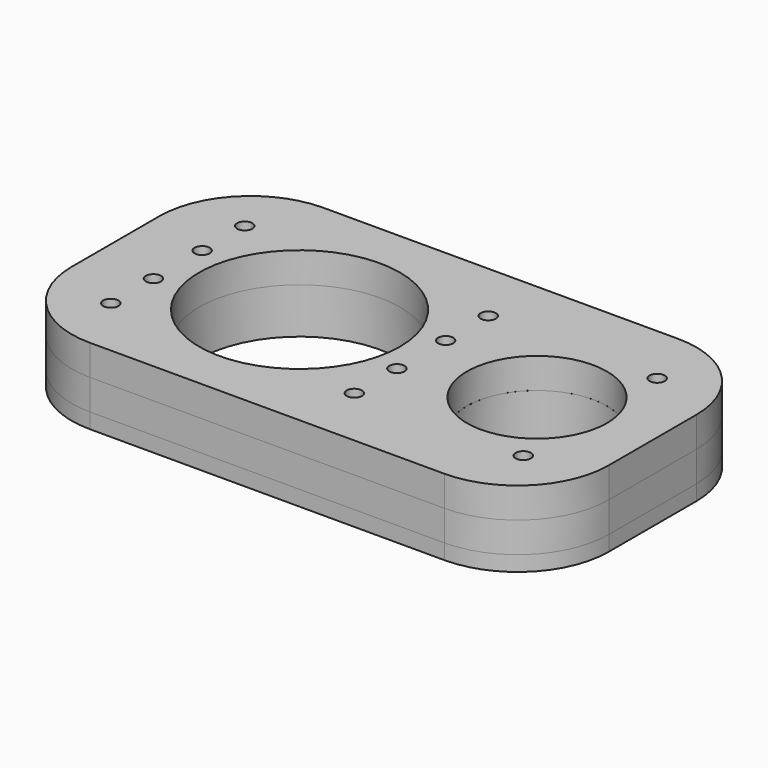
from build123d import *

# Parameters (mm, degrees)
F0_R     = 3.175
F0_R_2   = 41.91
F1_DEPTH = 19.05
F2_DEPTH = 10
F3_R     = 3.175
F3_R_2   = 41.91
F3_R_3   = 29.21
F5_DEPTH = 12.7
F4_R     = 3.175
F6_DEPTH = 12.7
F7_DEPTH = 8.89


with BuildPart() as f1:
    # F0 (on Top) → F1 (new body)
    with BuildSketch(Plane.XY):
        with BuildLine():
            ThreePointArc((109.22, -60.96), (136.1607683632, -49.8007683632), (147.32, -22.86))
            Line((147.32, -22.86), (147.32, 22.86))
            ThreePointArc((147.32, 22.86), (136.1607683632, 49.8007683632), (109.22, 60.96))
            Line((109.22, 60.96), (-38.735, 60.96))
            ThreePointArc((-38.735, 60.96), (-65.6757683632, 49.8007683632), (-76.835, 22.86))
            Line((-76.835, 22.86), (-76.835, -22.86))
            ThreePointArc((-76.835, -22.86), (-65.6757683632, -49.8007683632), (-38.735, -60.96))
            Line((-38.735, -60.96), (109.22, -60.96))
        make_face()
        with BuildLine():
            ThreePointArc((140.97, -22.86), (131.6706403027, -45.3106403027), (109.22, -54.61))
            Line((109.22, -54.61), (-38.735, -54.61))
            ThreePointArc((-38.735, -54.61), (-61.1856403027, -45.3106403027), (-70.485, -22.86))
            Line((-70.485, -22.86), (-70.485, 22.86))
            ThreePointArc((-70.485, 22.86), (-61.1856403027, 45.3106403027), (-38.735, 54.61))
            Line((-38.735, 54.61), (109.22, 54.61))
            ThreePointArc((109.22, 54.61), (131.6706403027, 45.3106403027), (140.97, 22.86))
            Line((140.97, 22.86), (140.97, -22.86))
        make_face(mode=Mode.SUBTRACT)
        with BuildLine():
            Line((-38.735, -54.61), (109.22, -54.61))
            ThreePointArc((109.22, -54.61), (131.6706403027, -45.3106403027), (140.97, -22.86))
            Line((140.97, -22.86), (140.97, 22.86))
            ThreePointArc((140.97, 22.86), (131.6706403027, 45.3106403027), (109.22, 54.61))
            Line((109.22, 54.61), (-38.735, 54.61))
            ThreePointArc((-38.735, 54.61), (-61.1856403027, 45.3106403027), (-70.485, 22.86))
            Line((-70.485, 22.86), (-70.485, -22.86))
            ThreePointArc((-70.485, -22.86), (-61.1856403027, -45.3106403027), (-38.735, -54.61))
        make_face()
        with BuildLine():
            ThreePointArc((130.97, -22.86), (124.5995724908, -38.2395724908), (109.22, -44.61))
            Line((109.22, -44.61), (-38.735, -44.61))
            ThreePointArc((-38.735, -44.61), (-54.1145724908, -38.2395724908), (-60.485, -22.86))
            Line((-60.485, -22.86), (-60.485, 22.86))
            ThreePointArc((-60.485, 22.86), (-54.1145724908, 38.2395724908), (-38.735, 44.61))
            Line((-38.735, 44.61), (109.22, 44.61))
            ThreePointArc((109.22, 44.61), (124.5995724908, 38.2395724908), (130.97, 22.86))
            Line((130.97, 22.86), (130.97, -22.86))
        make_face(mode=Mode.SUBTRACT)
        with BuildLine():
            Line((-38.735, -44.61), (109.22, -44.61))
            ThreePointArc((109.22, -44.61), (124.5995724908, -38.2395724908), (130.97, -22.86))
            Line((130.97, -22.86), (130.97, 22.86))
            ThreePointArc((130.97, 22.86), (124.5995724908, 38.2395724908), (109.22, 44.61))
            Line((109.22, 44.61), (-38.735, 44.61))
            ThreePointArc((-38.735, 44.61), (-54.1145724908, 38.2395724908), (-60.485, 22.86))
            Line((-60.485, 22.86), (-60.485, -22.86))
            ThreePointArc((-60.485, -22.86), (-54.1145724908, -38.2395724908), (-38.735, -44.61))
        make_face()
        with Locations((-50.8, -34.925)):
            Circle(F0_R, mode=Mode.SUBTRACT)
        with Locations((-50.8, -12.7)):
            Circle(F0_R, mode=Mode.SUBTRACT)
        Circle(F0_R_2, mode=Mode.SUBTRACT)
        with Locations((50.8, -34.925)):
            Circle(F0_R, mode=Mode.SUBTRACT)
        with Locations((121.285, -34.925)):
            Circle(F0_R, mode=Mode.SUBTRACT)
        with Locations((50.8, -12.7)):
            Circle(F0_R, mode=Mode.SUBTRACT)
        with BuildLine():
            ThreePointArc((128.27, 0), (99.06, -29.21), (69.85, 0))
            ThreePointArc((69.85, 0), (99.06, 29.21), (128.27, 0))
        make_face(mode=Mode.SUBTRACT)
        with Locations((-50.8, 12.7)):
            Circle(F0_R, mode=Mode.SUBTRACT)
        with Locations((-50.8, 34.925)):
            Circle(F0_R, mode=Mode.SUBTRACT)
        with Locations((50.8, 12.7)):
            Circle(F0_R, mode=Mode.SUBTRACT)
        with Locations((50.8, 34.925)):
            Circle(F0_R, mode=Mode.SUBTRACT)
        with Locations((121.285, 34.925)):
            Circle(F0_R, mode=Mode.SUBTRACT)
    extrude(amount=-F1_DEPTH)

    # F0 (on Top) → F2 (cut)
    with BuildSketch(Plane.XY):
        with BuildLine():
            Line((-38.735, -54.61), (109.22, -54.61))
            ThreePointArc((109.22, -54.61), (131.6706403027, -45.3106403027), (140.97, -22.86))
            Line((140.97, -22.86), (140.97, 22.86))
            ThreePointArc((140.97, 22.86), (131.6706403027, 45.3106403027), (109.22, 54.61))
            Line((109.22, 54.61), (-38.735, 54.61))
            ThreePointArc((-38.735, 54.61), (-61.1856403027, 45.3106403027), (-70.485, 22.86))
            Line((-70.485, 22.86), (-70.485, -22.86))
            ThreePointArc((-70.485, -22.86), (-61.1856403027, -45.3106403027), (-38.735, -54.61))
        make_face()
        with BuildLine():
            ThreePointArc((130.97, -22.86), (124.5995724908, -38.2395724908), (109.22, -44.61))
            Line((109.22, -44.61), (-38.735, -44.61))
            ThreePointArc((-38.735, -44.61), (-54.1145724908, -38.2395724908), (-60.485, -22.86))
            Line((-60.485, -22.86), (-60.485, 22.86))
            ThreePointArc((-60.485, 22.86), (-54.1145724908, 38.2395724908), (-38.735, 44.61))
            Line((-38.735, 44.61), (109.22, 44.61))
            ThreePointArc((109.22, 44.61), (124.5995724908, 38.2395724908), (130.97, 22.86))
            Line((130.97, 22.86), (130.97, -22.86))
        make_face(mode=Mode.SUBTRACT)
    extrude(amount=-F2_DEPTH, mode=Mode.SUBTRACT)


with BuildPart() as f5:
    # F3 (on Top) → F5 (new body)
    with BuildSketch(Plane.XY):
        with BuildLine():
            Line((109.22, 60.96), (-38.735, 60.96))
            ThreePointArc((-38.735, 60.96), (-65.6757683632, 49.8007683632), (-76.835, 22.86))
            Line((-76.835, 22.86), (-76.835, -22.86))
            ThreePointArc((-76.835, -22.86), (-65.6757683632, -49.8007683632), (-38.735, -60.96))
            Line((-38.735, -60.96), (109.22, -60.96))
            ThreePointArc((109.22, -60.96), (136.1607683632, -49.8007683632), (147.32, -22.86))
            Line((147.32, -22.86), (147.32, 22.86))
            ThreePointArc((147.32, 22.86), (136.1607683632, 49.8007683632), (109.22, 60.96))
        make_face()
        with Locations((-50.8, -34.925)):
            Circle(F3_R, mode=Mode.SUBTRACT)
        with Locations((-50.8, -12.7)):
            Circle(F3_R, mode=Mode.SUBTRACT)
        Circle(F3_R_2, mode=Mode.SUBTRACT)
        with Locations((50.8, -34.925)):
            Circle(F3_R, mode=Mode.SUBTRACT)
        with Locations((121.285, -34.925)):
            Circle(F3_R, mode=Mode.SUBTRACT)
        with Locations((50.8, -12.7)):
            Circle(F3_R, mode=Mode.SUBTRACT)
        with Locations((99.06, 0)):
            Circle(F3_R_3, mode=Mode.SUBTRACT)
        with Locations((-50.8, 12.7)):
            Circle(F3_R, mode=Mode.SUBTRACT)
        with Locations((-50.8, 34.925)):
            Circle(F3_R, mode=Mode.SUBTRACT)
        with Locations((50.8, 12.7)):
            Circle(F3_R, mode=Mode.SUBTRACT)
        with Locations((50.8, 34.925)):
            Circle(F3_R, mode=Mode.SUBTRACT)
        with Locations((121.285, 34.925)):
            Circle(F3_R, mode=Mode.SUBTRACT)
    extrude(amount=F5_DEPTH)


with BuildPart() as f6:
    # F4 (on Top) → F6 (new body)
    with BuildSketch(Plane.XY):
        with BuildLine():
            Line((109.22, 60.96), (-38.735, 60.96))
            ThreePointArc((-38.735, 60.96), (-65.6757683632, 49.8007683632), (-76.835, 22.86))
            Line((-76.835, 22.86), (-76.835, -22.86))
            ThreePointArc((-76.835, -22.86), (-65.6757683632, -49.8007683632), (-38.735, -60.96))
            Line((-38.735, -60.96), (109.22, -60.96))
            ThreePointArc((109.22, -60.96), (136.1607683632, -49.8007683632), (147.32, -22.86))
            Line((147.32, -22.86), (147.32, 22.86))
            ThreePointArc((147.32, 22.86), (136.1607683632, 49.8007683632), (109.22, 60.96))
        make_face()
        with BuildLine():
            ThreePointArc((-70.485, 22.86), (-61.1856403027, 45.3106403027), (-38.735, 54.61))
            Line((-38.735, 54.61), (109.22, 54.61))
            ThreePointArc((109.22, 54.61), (131.6706403027, 45.3106403027), (140.97, 22.86))
            Line((140.97, 22.86), (140.97, -22.86))
            ThreePointArc((140.97, -22.86), (131.6706403027, -45.3106403027), (109.22, -54.61))
            Line((109.22, -54.61), (-38.735, -54.61))
            ThreePointArc((-38.735, -54.61), (-61.1856403027, -45.3106403027), (-70.485, -22.86))
            Line((-70.485, -22.86), (-70.485, 22.86))
        make_face(mode=Mode.SUBTRACT)
        with BuildLine():
            Line((109.22, 54.61), (-38.735, 54.61))
            ThreePointArc((-38.735, 54.61), (-61.1856403027, 45.3106403027), (-70.485, 22.86))
            Line((-70.485, 22.86), (-70.485, -22.86))
            ThreePointArc((-70.485, -22.86), (-61.1856403027, -45.3106403027), (-38.735, -54.61))
            Line((-38.735, -54.61), (109.22, -54.61))
            ThreePointArc((109.22, -54.61), (131.6706403027, -45.3106403027), (140.97, -22.86))
            Line((140.97, -22.86), (140.97, 22.86))
            ThreePointArc((140.97, 22.86), (131.6706403027, 45.3106403027), (109.22, 54.61))
        make_face()
        with BuildLine():
            ThreePointArc((-60.485, 22.86), (-54.1145724908, 38.2395724908), (-38.735, 44.61))
            Line((-38.735, 44.61), (109.22, 44.61))
            ThreePointArc((109.22, 44.61), (124.5995724908, 38.2395724908), (130.97, 22.86))
            Line((130.97, 22.86), (130.97, -22.86))
            ThreePointArc((130.97, -22.86), (124.5995724908, -38.2395724908), (109.22, -44.61))
            Line((109.22, -44.61), (-38.735, -44.61))
            ThreePointArc((-38.735, -44.61), (-54.1145724908, -38.2395724908), (-60.485, -22.86))
            Line((-60.485, -22.86), (-60.485, 22.86))
        make_face(mode=Mode.SUBTRACT)
        with BuildLine():
            Line((109.22, 44.61), (-38.735, 44.61))
            ThreePointArc((-38.735, 44.61), (-54.1145724908, 38.2395724908), (-60.485, 22.86))
            Line((-60.485, 22.86), (-60.485, -22.86))
            ThreePointArc((-60.485, -22.86), (-54.1145724908, -38.2395724908), (-38.735, -44.61))
            Line((-38.735, -44.61), (109.22, -44.61))
            ThreePointArc((109.22, -44.61), (124.5995724908, -38.2395724908), (130.97, -22.86))
            Line((130.97, -22.86), (130.97, 22.86))
            ThreePointArc((130.97, 22.86), (124.5995724908, 38.2395724908), (109.22, 44.61))
        make_face()
        with Locations((-50.8, -34.925)):
            Circle(F4_R, mode=Mode.SUBTRACT)
        with Locations((50.8, -34.925)):
            Circle(F4_R, mode=Mode.SUBTRACT)
        with Locations((121.285, -34.925)):
            Circle(F4_R, mode=Mode.SUBTRACT)
        with BuildLine():
            ThreePointArc((-57.15, 19.05), (-55.2901280605, 23.5401280605), (-50.8, 25.4))
            ThreePointArc((-50.8, 25.4), (-44.0648079092, 28.1898079092), (-41.275, 34.925))
            ThreePointArc((-41.275, 34.925), (-39.4151280605, 39.4151280605), (-34.925, 41.275))
            Line((-34.925, 41.275), (-9.7458952898, 41.275))
            ThreePointArc((-9.7458952898, 41.275), (0, 42.41), (9.7458952898, 41.275))
            Line((9.7458952898, 41.275), (34.925, 41.275))
            ThreePointArc((34.925, 41.275), (39.4151280605, 39.4151280605), (41.275, 34.925))
            ThreePointArc((41.275, 34.925), (50.8, 25.4), (60.325, 34.925))
            ThreePointArc((60.325, 34.925), (62.1848719395, 39.4151280605), (66.675, 41.275))
            Line((66.675, 41.275), (105.41, 41.275))
            ThreePointArc((105.41, 41.275), (109.9001280605, 39.4151280605), (111.76, 34.925))
            ThreePointArc((111.76, 34.925), (114.5498079092, 28.1898079092), (121.285, 25.4))
            ThreePointArc((121.285, 25.4), (125.7751280605, 23.5401280605), (127.635, 19.05))
            Line((127.635, 19.05), (127.635, 8.1334786531))
            ThreePointArc((127.635, 8.1334786531), (128.77, 0), (127.635, -8.1334786531))
            Line((127.635, -8.1334786531), (127.635, -19.05))
            ThreePointArc((127.635, -19.05), (125.7751280605, -23.5401280605), (121.285, -25.4))
            ThreePointArc((121.285, -25.4), (114.5498079092, -28.1898079092), (111.76, -34.925))
            ThreePointArc((111.76, -34.925), (109.9001280605, -39.4151280605), (105.41, -41.275))
            Line((105.41, -41.275), (66.675, -41.275))
            ThreePointArc((66.675, -41.275), (62.1848719395, -39.4151280605), (60.325, -34.925))
            ThreePointArc((60.325, -34.925), (50.8, -25.4), (41.275, -34.925))
            ThreePointArc((41.275, -34.925), (39.4151280605, -39.4151280605), (34.925, -41.275))
            Line((34.925, -41.275), (9.7458952898, -41.275))
            ThreePointArc((9.7458952898, -41.275), (0, -42.41), (-9.7458952898, -41.275))
            Line((-9.7458952898, -41.275), (-34.925, -41.275))
            ThreePointArc((-34.925, -41.275), (-39.4151280605, -39.4151280605), (-41.275, -34.925))
            ThreePointArc((-41.275, -34.925), (-44.0648079092, -28.1898079092), (-50.8, -25.4))
            ThreePointArc((-50.8, -25.4), (-55.2901280605, -23.5401280605), (-57.15, -19.05))
            Line((-57.15, -19.05), (-57.15, 19.05))
        make_face(mode=Mode.SUBTRACT)
        with Locations((-50.8, 34.925)):
            Circle(F4_R, mode=Mode.SUBTRACT)
        with Locations((50.8, 34.925)):
            Circle(F4_R, mode=Mode.SUBTRACT)
        with Locations((121.285, 34.925)):
            Circle(F4_R, mode=Mode.SUBTRACT)
    extrude(amount=-F6_DEPTH)

    # F4 (on Top) → F7 (cut)
    with BuildSketch(Plane.XY):
        with BuildLine():
            Line((109.22, 54.61), (-38.735, 54.61))
            ThreePointArc((-38.735, 54.61), (-61.1856403027, 45.3106403027), (-70.485, 22.86))
            Line((-70.485, 22.86), (-70.485, -22.86))
            ThreePointArc((-70.485, -22.86), (-61.1856403027, -45.3106403027), (-38.735, -54.61))
            Line((-38.735, -54.61), (109.22, -54.61))
            ThreePointArc((109.22, -54.61), (131.6706403027, -45.3106403027), (140.97, -22.86))
            Line((140.97, -22.86), (140.97, 22.86))
            ThreePointArc((140.97, 22.86), (131.6706403027, 45.3106403027), (109.22, 54.61))
        make_face()
        with BuildLine():
            ThreePointArc((-60.485, 22.86), (-54.1145724908, 38.2395724908), (-38.735, 44.61))
            Line((-38.735, 44.61), (109.22, 44.61))
            ThreePointArc((109.22, 44.61), (124.5995724908, 38.2395724908), (130.97, 22.86))
            Line((130.97, 22.86), (130.97, -22.86))
            ThreePointArc((130.97, -22.86), (124.5995724908, -38.2395724908), (109.22, -44.61))
            Line((109.22, -44.61), (-38.735, -44.61))
            ThreePointArc((-38.735, -44.61), (-54.1145724908, -38.2395724908), (-60.485, -22.86))
            Line((-60.485, -22.86), (-60.485, 22.86))
        make_face(mode=Mode.SUBTRACT)
    extrude(amount=-F7_DEPTH, mode=Mode.SUBTRACT)


solid = Compound([f1.part, f5.part, f6.part])
